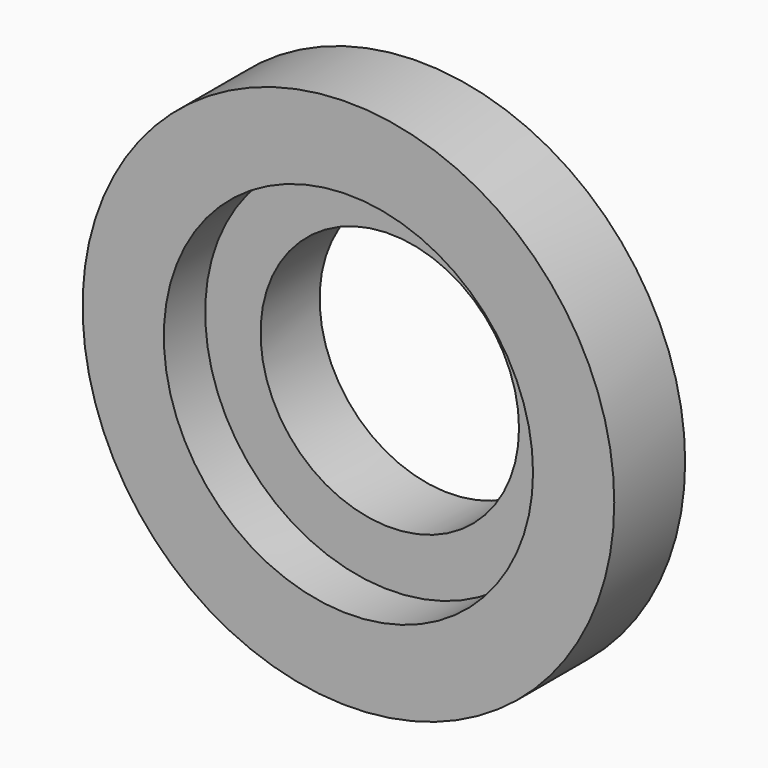
from build123d import *

# Parameters (mm, degrees)
F0_R     = 27.5
F0_R_2   = 17.5
F1_DEPTH = 5
F3_R     = 27.5
F3_R_2   = 26.9
F4_DEPTH = 1
F5_R     = 36
F5_R_2   = 25
F6_DEPTH = 12


with BuildPart() as f1:
    # F0 (on Front) → F1 (new body, symmetric)
    with BuildSketch(Plane.XZ):
        Circle(F0_R)
        Circle(F0_R_2, mode=Mode.SUBTRACT)
    extrude(amount=F1_DEPTH, both=True)

    # F3 (on offset) → F4 (cut)
    with BuildSketch(Plane.XZ.offset(-2)):
        Circle(F3_R)
        Circle(F3_R_2, mode=Mode.SUBTRACT)
    extrude(amount=-F4_DEPTH, mode=Mode.SUBTRACT)


with BuildPart() as f6:
    # F5 (on Front) → F6 (new body)
    with BuildSketch(Plane.XZ):
        Circle(F5_R)
        Circle(F5_R_2, mode=Mode.SUBTRACT)
    extrude(amount=F6_DEPTH)


solid = Compound([f1.part, f6.part])
